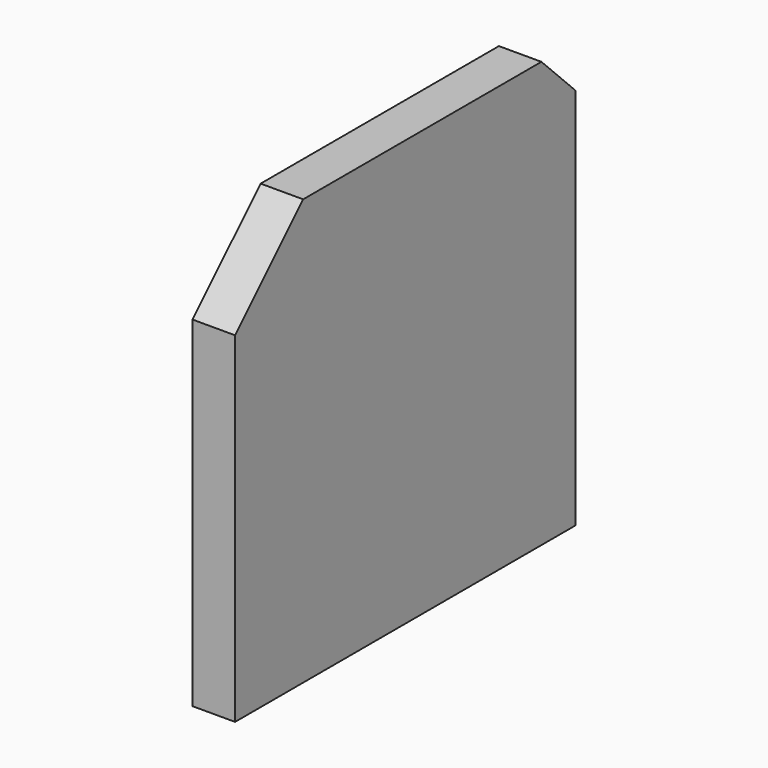
from build123d import *

# Parameters (mm, degrees)
PAD_DEPTH = 0.5


with BuildPart() as part:
    # Sketch (on YZ_Plane of Origin) → Pad (new body)
    with BuildSketch(Plane.YZ):
        Polygon((-2.5, -2.5), (2.5, -2.5), (2.5, 2), (2, 2.5), (-1.5, 2.5), (-2.5, 1.5), align=None)
    extrude(amount=PAD_DEPTH)


solid = part.part
